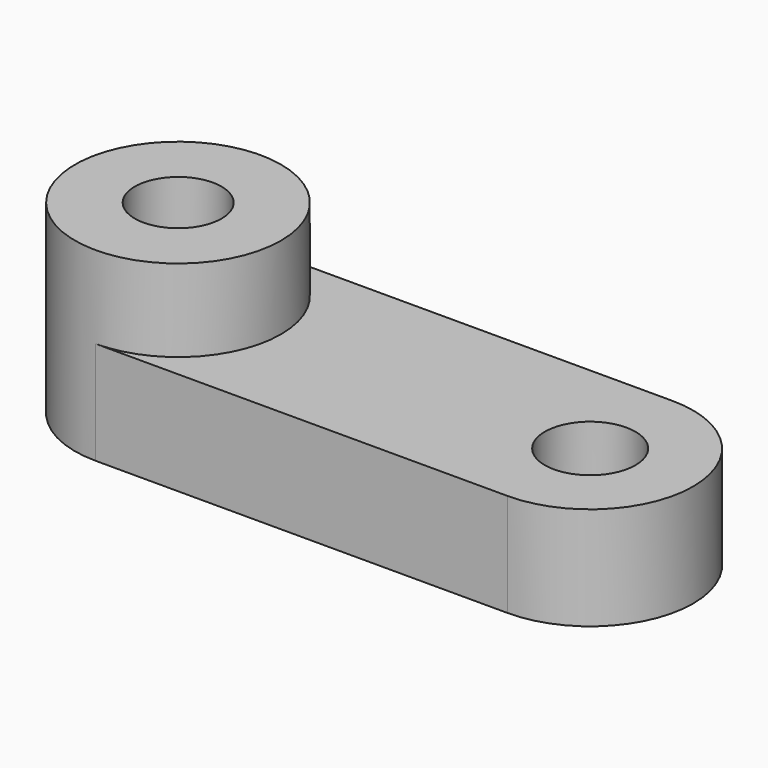
from build123d import *

# Parameters (mm, degrees)
SKETCH005_R      = 5
SKETCH005_R_2    = 2.105463
EXTRUDE004_DEPTH = 9
SKETCH004_R      = 2.2
EXTRUDE003_DEPTH = 5


with BuildPart() as psu_one_hole_extrude:
    # Sketch005 → Extrude004 (new body)
    with BuildSketch(Plane.XY):
        with Locations((-39.96372, 49.017672)):
            Circle(SKETCH005_R)
        with Locations((-39.959132, 49.020638)):
            Circle(SKETCH005_R_2, mode=Mode.SUBTRACT)
    extrude(amount=EXTRUDE004_DEPTH)


with BuildPart() as psu_two_hole_tab_fusion:
    # Sketch004 → Extrude003 (new body)
    with BuildSketch(Plane.XY):
        with BuildLine():
            Line((-39.96372, 54.017672), (-19.96372, 54.017672))
            ThreePointArc((-19.96372, 44.017672), (-14.96372, 49.017672), (-19.96372, 54.017672))
            Line((-39.96372, 44.017672), (-19.96372, 44.017672))
            ThreePointArc((-39.96372, 54.017672), (-44.96372, 49.017672), (-39.96372, 44.017672))
        make_face()
        with Locations((-39.96372, 49.017672)):
            Circle(SKETCH004_R, mode=Mode.SUBTRACT)
        with Locations((-19.96372, 49.017672)):
            Circle(SKETCH004_R, mode=Mode.SUBTRACT)
    extrude(amount=EXTRUDE003_DEPTH)

    # Fusion008: union psu one hole extrude
    add(psu_one_hole_extrude.part)


solid = psu_two_hole_tab_fusion.part
